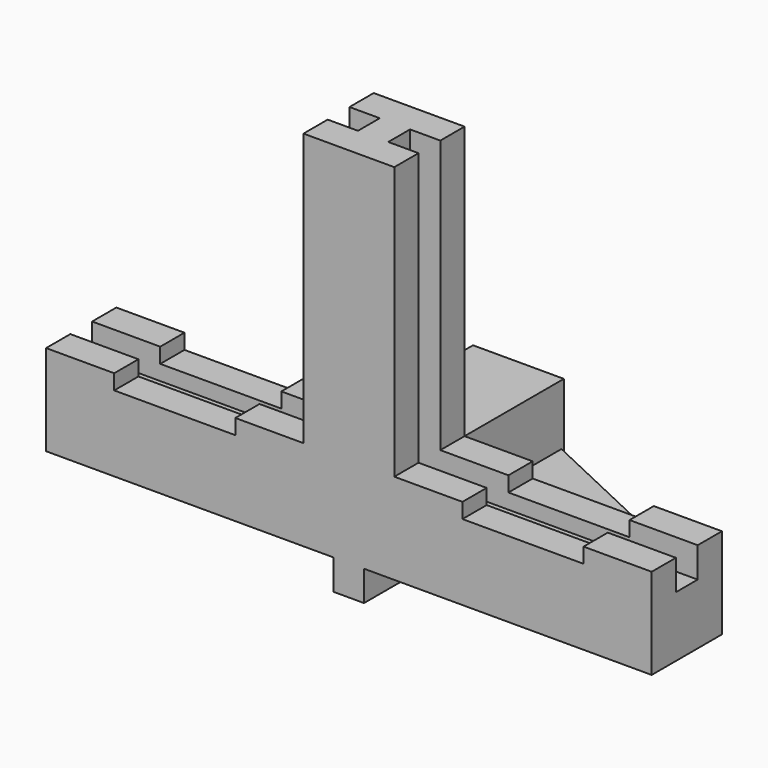
from build123d import *

# Parameters (mm, degrees)
F0_W      = 2
F0_H      = 2
F1_DEPTH  = 24
F0_W_2    = 17
F2_DEPTH  = 6
F0_H_2    = 1.8
F3_DEPTH  = 4
F4_W      = 6
F4_H      = 6
F5_DEPTH  = 14
F6_DEPTH  = 2
F7_DEPTH  = 2
F8_DEPTH  = 2
F9_W      = 8
F9_H      = 1
F10_DEPTH = 6
F11_DEPTH = 2
F12_DEPTH = 2


with BuildPart() as f1:
    # F0 (on Top) → F1 (new body)
    with BuildSketch(Plane.XY):
        with Locations((18, -1)):
            Rectangle(F0_W, F0_H)
        Polygon((20, 0), (19, 0), (19, -2), (20, -2), (21, -2), (21, 0), align=None)
        with Locations((22, -1)):
            Rectangle(F0_W, F0_H)
        Polygon((20, -2), (19, -2), (19, -3.8), (20, -3.8), (21, -3.8), (21, -2), align=None)
        with Locations((18, -4.8)):
            Rectangle(F0_W, F0_H)
        Polygon((20, -3.8), (19, -3.8), (19, -5.8), (20, -5.8), (21, -5.8), (21, -3.8), align=None)
        with Locations((22, -4.8)):
            Rectangle(F0_W, F0_H)
    extrude(amount=F1_DEPTH)

    # F0 (on Top) → F2 (join)
    with BuildSketch(Plane.XY):
        with Locations((8.5, -1)):
            Rectangle(F0_W_2, F0_H)
        with Locations((8.5, -4.8)):
            Rectangle(F0_W_2, F0_H)
        with Locations((31.5, -1)):
            Rectangle(F0_W_2, F0_H)
        with Locations((31.5, -4.8)):
            Rectangle(F0_W_2, F0_H)
    extrude(amount=F2_DEPTH)

    # F0 (on Top) → F3 (join)
    with BuildSketch(Plane.XY):
        with Locations((8.5, -2.9)):
            Rectangle(F0_W_2, F0_H_2)
        with Locations((18, -2.9)):
            Rectangle(F0_W, F0_H_2)
        with Locations((22, -2.9)):
            Rectangle(F0_W, F0_H_2)
        with Locations((31.5, -2.9)):
            Rectangle(F0_W_2, F0_H_2)
    extrude(amount=F3_DEPTH)

    # F4 (on face) → F5 (join)
    with BuildSketch(Plane.XZ.offset(5.8)):
        with Locations((20, 3)):
            Rectangle(F4_W, F4_H)
    extrude(amount=-F5_DEPTH)

    # F0 (on Top) → F6 (join)
    with BuildSketch(Plane.XY):
        Polygon((20, -3.8), (19, -3.8), (19, -5.8), (20, -5.8), (21, -5.8), (21, -3.8), align=None)
        Polygon((20, -2), (19, -2), (19, -3.8), (20, -3.8), (21, -3.8), (21, -2), align=None)
        Polygon((20, 0), (19, 0), (19, -2), (20, -2), (21, -2), (21, 0), align=None)
        Polygon((19, 8), (19, 0), (20, 0), (21, 0), (21, 8), align=None)
    extrude(amount=-F6_DEPTH)

    # F7 (cut): a face of the model
    f7_faces = [f1.faces().sort_by_distance(p)[0] for p in [
        (17, -2.9, 5),
    ]]
    extrude(f7_faces, amount=-F7_DEPTH, mode=Mode.SUBTRACT)

    # F8 (cut): a face of the model
    f8_faces = [f1.faces().sort_by_distance(p)[0] for p in [
        (23, -2.9, 5),
    ]]
    extrude(f8_faces, amount=-F8_DEPTH, mode=Mode.SUBTRACT)

    # F9 (on face) → F10 (cut)
    with BuildSketch(Plane.XZ.offset(5.8)):
        with Locations((8.5, 5.5)):
            Rectangle(F9_W, F9_H)
        with Locations((8.5, 6.5)):
            Rectangle(F9_W, F9_H)
        with Locations((31.5, 6.5)):
            Rectangle(F9_W, F9_H)
        with Locations((31.5, 5.5)):
            Rectangle(F9_W, F9_H)
    extrude(amount=-F10_DEPTH, mode=Mode.SUBTRACT)

    # F0 (on Top) → F11 (join)
    with BuildSketch(Plane.XY):
        Polygon((17, 8), (0, 0), (17, 0), align=None)
    extrude(amount=F11_DEPTH)

    # F0 (on Top) → F12 (join)
    with BuildSketch(Plane.XY):
        Polygon((40, 0), (23, 8), (23, 0), align=None)
    extrude(amount=F12_DEPTH)


solid = f1.part
